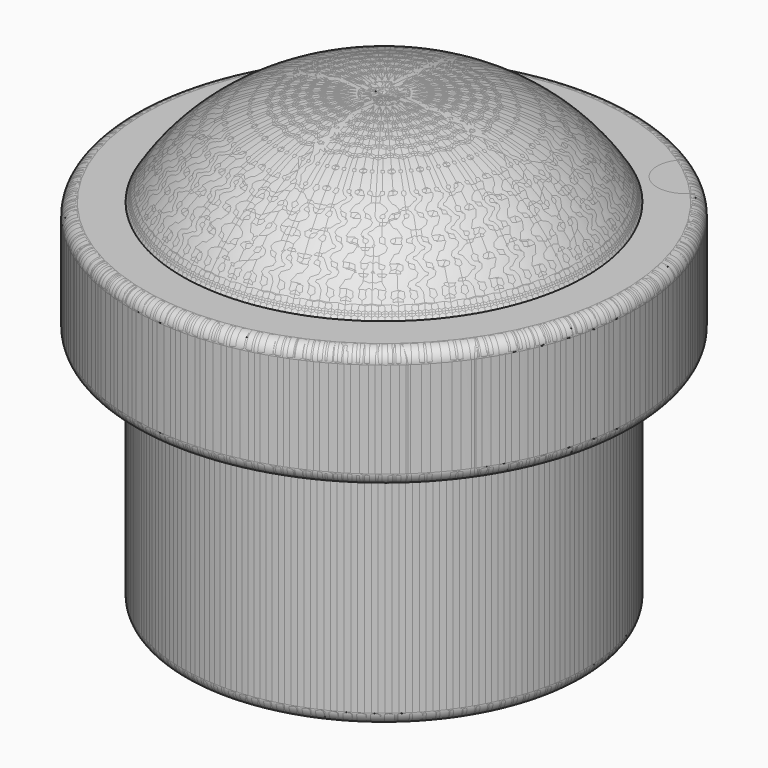
from build123d import *

# Parameters (mm, degrees)
F2_R     = 0.5
F4_DEPTH = 25
F5_COUNT = 4


with BuildPart() as f1:
    # F0 (on Front) → F1 (revolve)
    with BuildSketch(Plane.XZ):
        with BuildLine():
            Line((10, -3.71), (8.0052146013, -3.71))
            ThreePointArc((8.0052146013, -3.71), (4.5603028083, -0.6516382153), (0, 0))
            Line((0, 0), (0, -3.71))
            Line((0, -3.71), (6, -3.71))
            Line((6, -3.71), (6, -17.9))
            Line((6, -17.9), (8.0052146013, -17.9))
            Line((8.0052146013, -17.9), (8.0052146013, -8.51))
            Line((8.0052146013, -8.51), (10, -8.51))
            Line((10, -8.51), (10, -3.71))
        make_face()
    revolve(axis=Axis((0, 0, -9.943482466), (0, 0, -1)))

    # F2
    f2_edges = [f1.edges().sort_by_distance(p)[0] for p in [
        (-10, 0, -3.71),
        (-10, 0, -8.51),
        (-8.005215, 0, -17.9),
        (-8.005215, 0, -8.51),
        (8.005215, 0, -13.205),
    ]]
    fillet(f2_edges, radius=F2_R)

    # F3 (on face) → F4 (cut)
    with BuildSketch(Plane.XY.offset(-3.71)):
        with BuildLine():
            ThreePointArc((6.3628539673, -7.0543666895), (7.6002827768, -7.2923941035), (8.298157777, -6.2431764939))
            ThreePointArc((8.298157777, -6.2431764939), (8.1815013442, -5.7413581163), (7.8554561341, -5.3424534555))
            ThreePointArc((7.8554561341, -5.3424534555), (7.1604990933, -6.2431764939), (6.3628539673, -7.0543666895))
        make_face()
        with BuildLine():
            ThreePointArc((6.3628539673, -7.0543666895), (7.1604990933, -6.2431764939), (7.8554561341, -5.3424534555))
            ThreePointArc((7.8554561341, -5.3424534555), (6.3030039383, -5.4955339727), (6.3628539673, -7.0543666895))
        make_face()
    extrude(amount=-F4_DEPTH, mode=Mode.SUBTRACT)


with BuildPart() as f5_1:
    # F5: instance of F1
    add(f1.part.rotate(Axis((0, 0, -3.71), (0, 0, -1)), 1 * 360 / F5_COUNT))


with BuildPart() as f5_2:
    # F5: instance of F1
    add(f1.part.rotate(Axis((0, 0, -3.71), (0, 0, -1)), 2 * 360 / F5_COUNT))


with BuildPart() as f5_3:
    # F5: instance of F1
    add(f1.part.rotate(Axis((0, 0, -3.71), (0, 0, -1)), 3 * 360 / F5_COUNT))


solid = Compound([f1.part, f5_1.part, f5_2.part, f5_3.part])
